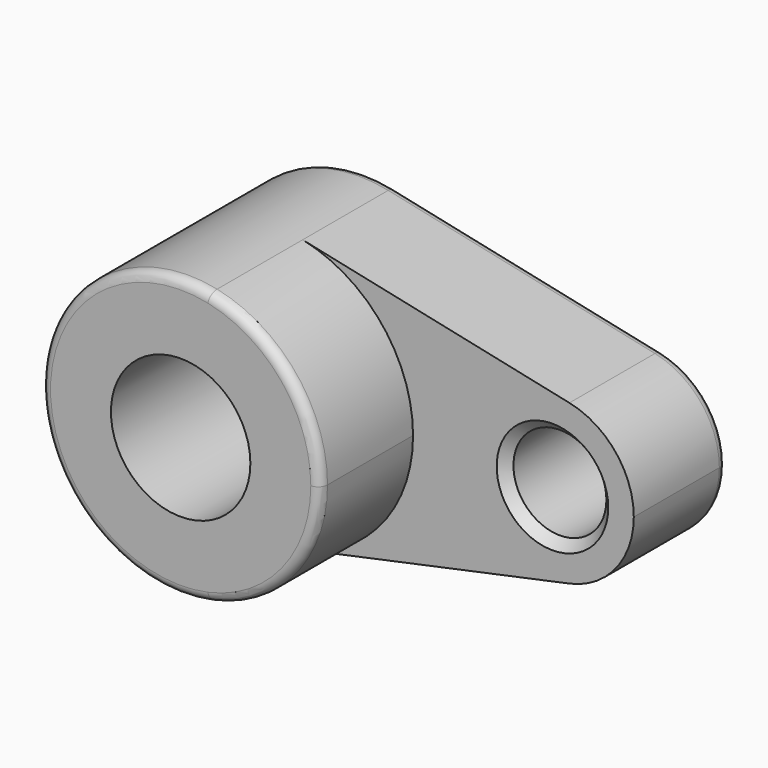
from build123d import *

# Parameters (mm, degrees)
F0_R     = 38.1
F0_R_2   = 25.4
F1_DEPTH = 63.5
F2_DEPTH = 127
F3_R     = 5.08
F4_SIZE  = 5.08


with BuildPart() as f1:
    # F0 (on Front) → F1 (new body)
    with BuildSketch(Plane.XZ):
        with BuildLine():
            ThreePointArc((15.875, -74.528011), (59.228857, -47.941449), (76.2, 0))
            ThreePointArc((76.2, 0), (59.228857, 47.941449), (15.875, 74.528011))
            ThreePointArc((15.875, 74.528011), (-76.2, 0), (15.875, -74.528011))
        make_face()
        Circle(F0_R, mode=Mode.SUBTRACT)
        with BuildLine():
            ThreePointArc((15.875, 74.528011), (59.228857, 47.941449), (76.2, 0))
            ThreePointArc((76.2, 0), (59.228857, -47.941449), (15.875, -74.528011))
            Line((15.875, -74.528011), (161.660417, -43.474673))
            ThreePointArc((161.660417, -43.474673), (107.95, 0), (161.660417, 43.474673))
            Line((161.660417, 43.474673), (15.875, 74.528011))
        make_face()
        with BuildLine():
            ThreePointArc((196.85, 0), (186.950167, 27.965845), (161.660417, 43.474673))
            ThreePointArc((161.660417, 43.474673), (107.95, 0), (161.660417, -43.474673))
            ThreePointArc((161.660417, -43.474673), (186.950167, -27.965845), (196.85, 0))
        make_face()
        with Locations((152.4, 0)):
            Circle(F0_R_2, mode=Mode.SUBTRACT)
    extrude(amount=F1_DEPTH)

    # F0 (on Front) → F2 (join)
    with BuildSketch(Plane.XZ):
        with BuildLine():
            ThreePointArc((15.875, -74.528011), (59.228857, -47.941449), (76.2, 0))
            ThreePointArc((76.2, 0), (59.228857, 47.941449), (15.875, 74.528011))
            ThreePointArc((15.875, 74.528011), (-76.2, 0), (15.875, -74.528011))
        make_face()
        Circle(F0_R, mode=Mode.SUBTRACT)
    extrude(amount=F2_DEPTH)

    # F3
    f3_edges = [f1.edges().sort_by_distance(p)[0] for p in [
        (-15.875, -127, 74.528011),
        (-76.2, 0, 0),
        (88.767708, 0, -59.001342),
        (196.85, 0, 0),
        (88.767708, 0, 59.001342),
        (-38.1, 0, 0),
        (127, 0, 0),
    ]]
    fillet(f3_edges, radius=F3_R)

    # F4
    f4_edges = [f1.edges().sort_by_distance(p)[0] for p in [
        (127, -63.5, 0),
    ]]
    chamfer(f4_edges, length=F4_SIZE)


solid = f1.part
